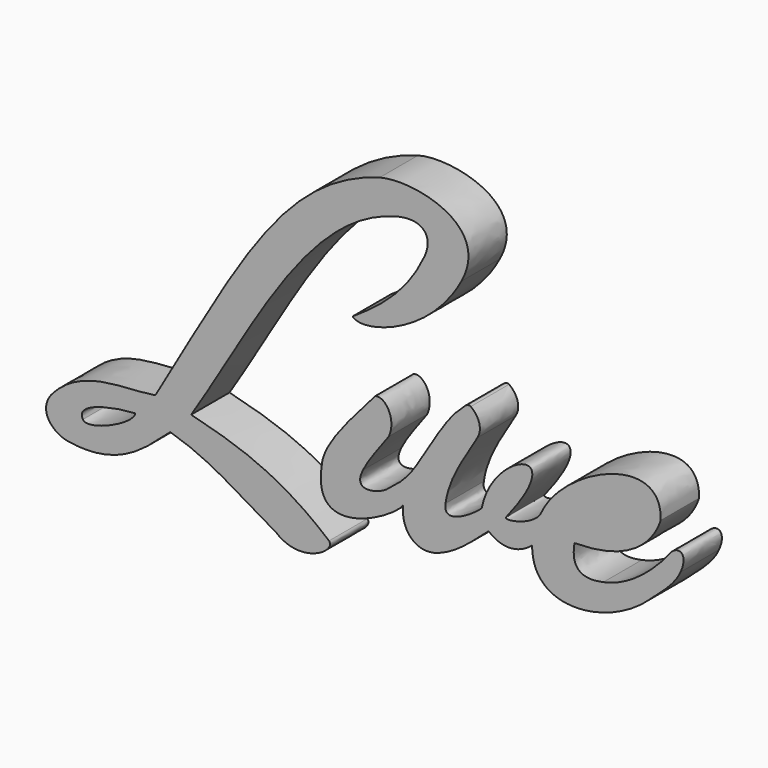
from build123d import *

# Parameters (mm, degrees)
F1_DEPTH = 5.08
F3_DEPTH = 5.08


with BuildPart() as f1:
    # F0 (on Front) → F1 (new body)
    with BuildSketch(Plane.XZ):
        with BuildLine():
            add(Edge.make_bspline(
                [(-1.324513, 25.70522), (-2.801984, 22.545209), (-4.950751, 20.264233), (-8.904721, 17.705781)],
                knots=[0, 0, 0, 0, 11.020461, 11.020461, 11.020461, 11.020461], degree=3))
            add(Edge.make_bspline(
                [(-8.904721, 17.705781), (-7.873991, 16.446002), (-0.755446, 18.453902), (2.614936, 24.729785)],
                knots=[0, 0, 0, 0, 13.492187, 13.492187, 13.492187, 13.492187], degree=3))
            add(Edge.make_bspline(
                [(-6.043184, 31.582531), (-2.707249, 32.523745), (5.936177, 30.914163), (2.614936, 24.729785)],
                knots=[0, 0, 0, 0, 11.041882, 11.041882, 11.041882, 11.041882], degree=3))
            add(Edge.make_bspline(
                [(-6.043184, 31.582531), (-16.118718, 28.739778), (-20.783211, 19.049494), (-29.809598, 3.546224)],
                knots=[0, 0, 0, 0, 36.754278, 36.754278, 36.754278, 36.754278], degree=3))
            add(Edge.make_bspline(
                [(-29.809598, 3.546224), (-33.211578, 2.978871), (-37.65085, 3.748198), (-40.84963, 0)],
                knots=[0, 0, 0, 0, 11.595603, 11.595603, 11.595603, 11.595603], degree=3))
            add(Edge.make_bspline(
                [(-39.0807, -3.749497), (-40.609037, -3.491419), (-42.266812, -1.880036), (-40.84963, 0)],
                knots=[0, 0, 0, 0, 4.145822, 4.145822, 4.145822, 4.145822], degree=3))
            add(Edge.make_bspline(
                [(-28.227916, 0.628786), (-30.575689, -1.37541), (-33.448957, -4.700487), (-39.0807, -3.749497)],
                knots=[0, 0, 0, 0, 11.702662, 11.702662, 11.702662, 11.702662], degree=3))
            add(Edge.make_bspline(
                [(-28.227916, 0.628786), (-23.771785, -0.67878), (-21.109067, -2.826134), (-17.014779, -5.088013)],
                knots=[0, 0, 0, 0, 12.586351, 12.586351, 12.586351, 12.586351], degree=3))
            add(Edge.make_bspline(
                [(-17.014779, -5.088013), (-14.380691, -7.292629), (-10.601348, -4.887593), (-11.409713, -4.043678)],
                knots=[0, 0, 0, 0, 5.701526, 5.701526, 5.701526, 5.701526], degree=3))
            add(Edge.make_bspline(
                [(-26.016446, 2.969934), (-20.406444, 1.589058), (-16.181892, 0), (-11.409713, -4.043678)],
                knots=[0, 0, 0, 0, 16.203315, 16.203315, 16.203315, 16.203315], degree=3))
            add(Edge.make_bspline(
                [(-4.070902, 28.575774), (-13.55645, 26.31148), (-19.23367, 13.564208), (-26.016446, 2.969934)],
                knots=[0, 0, 0, 0, 33.723374, 33.723374, 33.723374, 33.723374], degree=3))
            add(Edge.make_bspline(
                [(-4.070902, 28.575774), (-1.597192, 29.166274), (-0.263976, 27.973495), (-1.324513, 25.70522)],
                knots=[0, 0, 0, 0, 3.972749, 3.972749, 3.972749, 3.972749], degree=3))
        make_face()
        with BuildLine():
            add(Edge.make_bspline(
                [(-31.935908, 1.173504), (-33.793658, 1.089822), (-38.362958, 0.322711), (-37.49077, -1.207798)],
                knots=[0, 0, 0, 0, 6.043765, 6.043765, 6.043765, 6.043765], degree=3))
            add(Edge.make_bspline(
                [(-31.935908, 1.173504), (-32.122403, 0), (-36.968427, -2.124403), (-37.49077, -1.207798)],
                knots=[0, 0, 0, 0, 6.043765, 6.043765, 6.043765, 6.043765], degree=3))
        make_face(mode=Mode.SUBTRACT)
    extrude(amount=F1_DEPTH)


with BuildPart() as f3:
    # F2 (on Front) → F3 (new body, through all)
    with BuildSketch(Plane.XZ):
        with BuildLine():
            add(Edge.make_bspline(
                [(-6.529962, 11.030978), (-5.599444, 11.429772), (-4.223298, 9.711762), (-5.065195, 7.762105)],
                knots=[0, 0, 0, 0, 3.582048, 3.582048, 3.582048, 3.582048], degree=3))
            add(Edge.make_bspline(
                [(-6.529962, 11.030978), (-8.435308, 8.771149), (-11.714277, 5.44787), (-12.138262, 3.067929)],
                knots=[0, 0, 0, 0, 9.739773, 9.739773, 9.739773, 9.739773], degree=3))
            add(Edge.make_bspline(
                [(-12.138262, 3.067929), (-13.56139, -4.920452), (-4.181512, 0.529417), (-3.561166, 1.858729)],
                knots=[0, 0, 0, 0, 8.661914, 8.661914, 8.661914, 8.661914], degree=3))
            add(Edge.make_bspline(
                [(-3.561166, 1.858729), (-3.809796, -0.554642), (-2.178719, -2.25616), (0.188285, -1.407566)],
                knots=[0, 0, 0, 0, 4.972632, 4.972632, 4.972632, 4.972632], degree=3))
            add(Edge.make_bspline(
                [(0.188285, -1.407566), (2.185756, -0.691454), (3.812834, 0.893544), (5.49265, 2.354115)],
                knots=[0, 0, 0, 0, 6.50281, 6.50281, 6.50281, 6.50281], degree=3))
            add(Edge.make_bspline(
                [(5.49265, 2.354115), (6.773624, 1.249161), (8.535437, 1.192328), (10.107808, 2.518424)],
                knots=[0, 0, 0, 0, 4.618081, 4.618081, 4.618081, 4.618081], degree=3))
            add(Edge.make_bspline(
                [(10.107808, 2.518424), (10.07741, -3.412867), (17.990364, -2.574516), (22.339994, 1.340152)],
                knots=[0, 0, 0, 0, 12.288804, 12.288804, 12.288804, 12.288804], degree=3))
            add(Edge.make_bspline(
                [(22.339994, 1.340152), (23.822591, 2.67449), (25.183951, 3.699856), (25.841774, 5.164942)],
                knots=[0, 0, 0, 0, 5.1857, 5.1857, 5.1857, 5.1857], degree=3))
            add(Edge.make_bspline(
                [(24.61057, 6.430138), (25.490304, 7.611705), (26.744503, 7.175473), (25.841774, 5.164942)],
                knots=[0, 0, 0, 0, 1.765386, 1.765386, 1.765386, 1.765386], degree=3))
            add(Edge.make_bspline(
                [(17.652975, 1.549193), (20.960761, 2.208865), (23.730582, 5.24823), (24.61057, 6.430138)],
                knots=[0, 0, 0, 0, 8.498927, 8.498927, 8.498927, 8.498927], degree=3))
            add(Edge.make_bspline(
                [(17.652975, 1.549193), (16.694377, 1.358019), (13.996438, 0.827415), (14.604981, 4.204826)],
                knots=[0, 0, 0, 0, 4.042605, 4.042605, 4.042605, 4.042605], degree=3))
            add(Edge.make_bspline(
                [(14.604981, 4.204826), (20.813771, 4.229018), (23.04725, 7.197002), (23.730582, 9.295059)],
                knots=[0, 0, 0, 0, 10.449261, 10.449261, 10.449261, 10.449261], degree=3))
            add(Edge.make_bspline(
                [(11.091067, 5.917699), (13.379047, 10.961175), (23.935271, 15.640404), (23.730582, 9.295059)],
                knots=[0, 0, 0, 0, 13.082962, 13.082962, 13.082962, 13.082962], degree=3))
            add(Edge.make_bspline(
                [(7.360487, 4.282658), (6.942905, 3.761677), (10.39417, 4.381505), (11.091067, 5.917699)],
                knots=[0, 0, 0, 0, 4.073154, 4.073154, 4.073154, 4.073154], degree=3))
            add(Edge.make_bspline(
                [(4.772695, 4.282658), (5.906395, 10.14832), (14.40477, 13.07118), (7.360487, 4.282658)],
                knots=[0, 0, 0, 0, 2.587792, 2.587792, 2.587792, 2.587792], degree=3))
            add(Edge.make_bspline(
                [(0.927975, 3.444706), (0.577201, 1.12927), (4.279783, 3.666517), (4.772695, 4.282658)],
                knots=[0, 0, 0, 0, 3.934975, 3.934975, 3.934975, 3.934975], degree=3))
            add(Edge.make_bspline(
                [(4.319324, 10.69557), (2.899626, 8.250606), (1.348228, 6.218763), (0.927975, 3.444706)],
                knots=[0, 0, 0, 0, 8.004766, 8.004766, 8.004766, 8.004766], degree=3))
            add(Edge.make_bspline(
                [(4.319324, 10.69557), (4.989038, 11.848931), (4.205845, 12.957923), (3.59896, 13.360918)],
                knots=[0, 0, 0, 0, 2.760978, 2.760978, 2.760978, 2.760978], degree=3))
            add(Edge.make_bspline(
                [(3.59896, 13.360918), (3.405378, 13.489463), (3.140711, 13.353076), (2.966232, 13.1996)],
                knots=[0, 0, 0, 0, 0.652969, 0.652969, 0.652969, 0.652969], degree=3))
            add(Edge.make_bspline(
                [(-2.091801, 6.105109), (0.116301, 9.539208), (0.873309, 11.358624), (2.966232, 13.1996)],
                knots=[0, 0, 0, 0, 8.71295, 8.71295, 8.71295, 8.71295], degree=3))
            add(Edge.make_bspline(
                [(-5.286747, 2.755032), (-3.481866, 4.110201), (-2.966992, 4.743989), (-2.091801, 6.105109)],
                knots=[0, 0, 0, 0, 4.62933, 4.62933, 4.62933, 4.62933], degree=3))
            add(Edge.make_bspline(
                [(-7.812439, 3.72986), (-9.035967, 1.261889), (-6.161904, 2.097933), (-5.286747, 2.755032)],
                knots=[0, 0, 0, 0, 2.707289, 2.707289, 2.707289, 2.707289], degree=3))
            add(Edge.make_bspline(
                [(-5.065195, 7.762105), (-5.980943, 6.418024), (-7.090039, 5.187011), (-7.812439, 3.72986)],
                knots=[0, 0, 0, 0, 4.879175, 4.879175, 4.879175, 4.879175], degree=3))
        make_face()
    extrude(amount=F3_DEPTH)


solid = Compound([f1.part, f3.part])
